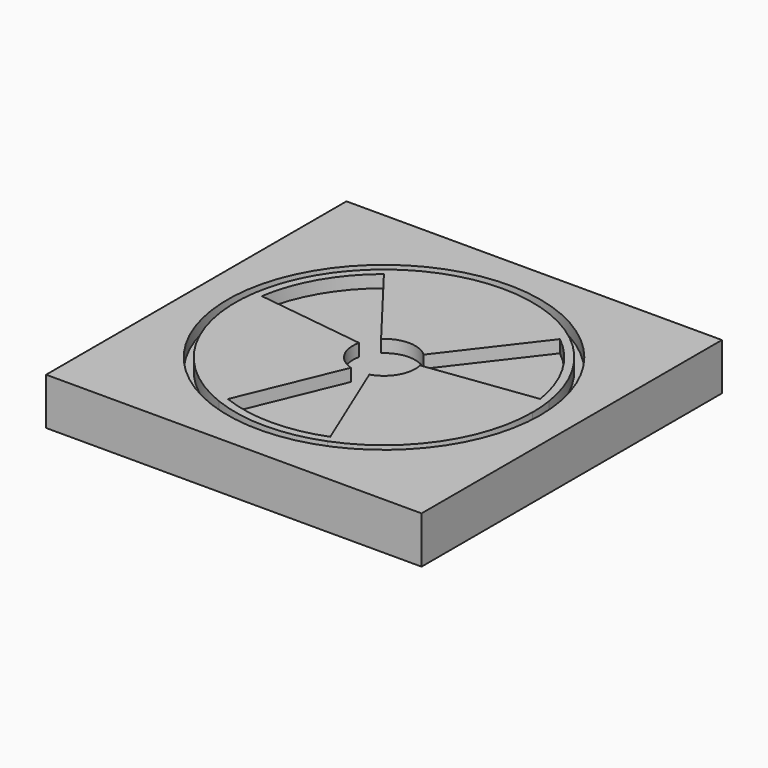
from build123d import *

# Parameters (mm, degrees)
F0_W     = 76.2
F0_H     = 76.2
F1_DEPTH = 9.525
F2_R     = 31.75
F3_DEPTH = 2.54


with BuildPart() as f1:
    # F0 (on Top) → F1 (new body)
    with BuildSketch(Plane.XY):
        Rectangle(F0_W, F0_H)
    extrude(amount=F1_DEPTH)

    # F2 (on face) → F3 (cut)
    with BuildSketch(Plane.XY.offset(9.525)):
        Circle(F2_R)
        with BuildLine():
            ThreePointArc((29.8215182706, 4.5225495338), (30.0771337654, 2.2676928157), (30.1625, 0))
            ThreePointArc((30.1625, 0), (24.913715506, -17.0024464691), (10.9941163492, -28.0874671687))
            ThreePointArc((10.9941163492, -28.0874671687), (0, -30.1625), (-10.9941163492, -28.0874671687))
            ThreePointArc((-10.9941163492, -28.0874671687), (-26.1214912416, -15.08125), (-29.8215182706, 4.5225495338))
            ThreePointArc((-29.8215182706, 4.5225495338), (-26.1214912416, 15.08125), (-18.8274019215, 23.5649176349))
            ThreePointArc((-18.8274019215, 23.5649176349), (0, 30.1625), (18.8274019215, 23.5649176349))
            ThreePointArc((18.8274019215, 23.5649176349), (26.1214912416, 15.08125), (29.8215182706, 4.5225495338))
        make_face(mode=Mode.SUBTRACT)
        with BuildLine():
            Line((6.1911249981, 1.4115492405), (28.2472801431, 4.3152971525))
            ThreePointArc((28.2472801431, 4.3152971525), (24.7466759131, 14.2875), (17.8607970305, 22.3052136155))
            Line((17.8607970305, 22.3052136155), (4.318, 4.6558969061))
            ThreePointArc((4.318, 4.6558969061), (0, 6.35), (-4.318, 4.6558969061))
            Line((-4.318, 4.6558969061), (-17.8607970305, 22.3052136155))
            ThreePointArc((-17.8607970305, 22.3052136155), (-24.7466759131, 14.2875), (-28.2472801431, 4.3152971525))
            Line((-28.2472801431, 4.3152971525), (-6.1911249981, 1.4115492405))
            ThreePointArc((-6.1911249981, 1.4115492405), (-5.499261314, -3.175), (-1.8731249981, -6.0674461466))
            Line((-1.8731249981, -6.0674461466), (-10.3864831126, -26.620510768))
            ThreePointArc((-10.3864831126, -26.620510768), (0, -28.575), (10.3864831126, -26.620510768))
            Line((10.3864831126, -26.620510768), (1.8731249981, -6.0674461466))
            ThreePointArc((1.8731249981, -6.0674461466), (5.499261314, -3.175), (6.1911249981, 1.4115492405))
        make_face()
    extrude(amount=-F3_DEPTH, mode=Mode.SUBTRACT)


solid = f1.part
